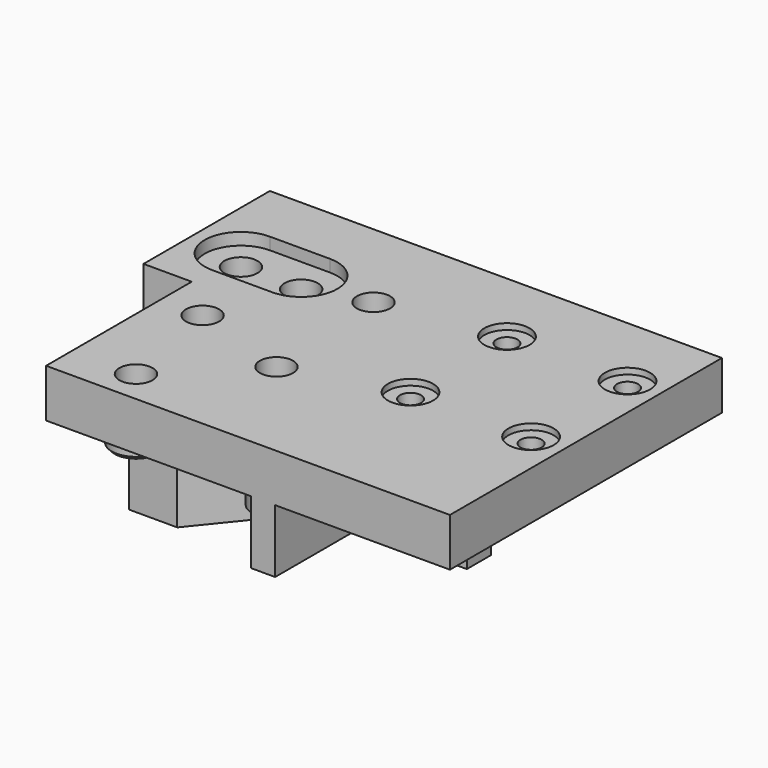
from build123d import *

# Parameters (mm, degrees)
SKETCH_R             = 1.75
SKETCH_R_2           = 2.75
PAD_DEPTH            = 8
PAD001_DEPTH         = 20
SKETCH004_R          = 2.75
POCKET_DEPTH         = 23.001
SKETCH005_R          = 2.75
POCKET001_DEPTH      = 20.001
POCKET001_DEPTH_BACK = 8.001
SKETCH008_R          = 4
SKETCH008_R_2        = 2.75
PAD005_DEPTH         = 2
SKETCH009_R          = 3.5
SKETCH009_R_2        = 2.75
PAD006_DEPTH         = 0.55
SKETCH010_R          = 4
SKETCH010_R_2        = 2.75
PAD007_DEPTH         = 12.1
SKETCH011_R          = 3.5
SKETCH011_R_2        = 2.75
PAD008_DEPTH         = 0.55
POCKET004_DEPTH      = 2
SKETCH020_W          = 4
SKETCH020_H          = 10.5
PAD013_DEPTH         = 33.4
PAD013_DEPTH_BACK    = 23
SKETCH021_W          = 27
SKETCH021_H          = 5
PAD014_DEPTH         = 3
SKETCH029_R          = 3.75
POCKET007_DEPTH      = 1


with BuildPart() as part:
    # Sketch → Pad (new body)
    with BuildSketch(Plane.XY):
        Polygon((0, 23), (-73, 23), (-73, -3.2), (-65, -3.2), (-65, -33.4), (0, -33.4), (2, -33.4), (2, 23), align=None)
        with Locations((-23.5, 10.3)):
            Circle(SKETCH_R, mode=Mode.SUBTRACT)
        with Locations((-3.5, 10.3)):
            Circle(SKETCH_R, mode=Mode.SUBTRACT)
        with Locations((-23.5, -9.7)):
            Circle(SKETCH_R, mode=Mode.SUBTRACT)
        with Locations((-3.5, -9.7)):
            Circle(SKETCH_R, mode=Mode.SUBTRACT)
        with Locations((-55, 7)):
            Circle(SKETCH_R_2, mode=Mode.SUBTRACT)
        with Locations((-41.5, -15)):
            Circle(SKETCH_R_2, mode=Mode.SUBTRACT)
        with Locations((-54.45, -27.95)):
            Circle(SKETCH_R_2, mode=Mode.SUBTRACT)
        with Locations((-65, 7)):
            Circle(SKETCH_R_2, mode=Mode.SUBTRACT)
    extrude(amount=PAD_DEPTH)

    # Sketch001 → Pad001 (join)
    with BuildSketch(Plane(origin=(0, 0, 0), x_dir=(1, 0, 0), z_dir=(0, 0, -1))):
        Polygon((-73, -23), (-39.5, -23), (-39.5, 3.2), (-46.5, 3.2), (-57, 16.2), (-65, 16.2), (-65, 3.2), (-47.5, 3.2), (-47.5, -17), (-73, -17), align=None)
    extrude(amount=PAD001_DEPTH)

    # Sketch004 → Pocket (cut, through all)
    with BuildSketch(Plane(origin=(0, 0, 0), x_dir=(-1, 0, 0), z_dir=(0, 1, 0))):
        with Locations((55, -10)):
            Circle(SKETCH004_R)
        with Locations((65, -10)):
            Circle(SKETCH004_R)
    extrude(amount=POCKET_DEPTH, mode=Mode.SUBTRACT)

    # Sketch005 → Pocket001 (cut, two sides)
    with BuildSketch(Plane.XY) as pocket001_sk:
        with Locations((-58, -9.7)):
            Circle(SKETCH005_R)
        with Locations((-43, 7)):
            Circle(SKETCH005_R)
    extrude(amount=-POCKET001_DEPTH, mode=Mode.SUBTRACT)
    extrude(pocket001_sk.sketch, amount=POCKET001_DEPTH_BACK, mode=Mode.SUBTRACT)

    # Sketch008 → Pad005 (join)
    with BuildSketch(Plane.XY):
        with Locations((-54.45, -27.95)):
            Circle(SKETCH008_R)
        with Locations((-54.45, -27.95)):
            Circle(SKETCH008_R_2, mode=Mode.SUBTRACT)
    extrude(amount=-PAD005_DEPTH)

    # Sketch009 (on Face30 of Pad005) → Pad006 (join)
    with BuildSketch(Plane(origin=(0, 0, -2), x_dir=(1, 0, 0), z_dir=(0, 0, -1))):
        with Locations((-54.45, 27.95)):
            Circle(SKETCH009_R)
        with Locations((-54.45, 27.95)):
            Circle(SKETCH009_R_2, mode=Mode.SUBTRACT)
    extrude(amount=PAD006_DEPTH)

    # Sketch010 → Pad007 (join)
    with BuildSketch(Plane.XY):
        with Locations((-41.5, -15)):
            Circle(SKETCH010_R)
        with Locations((-41.5, -15)):
            Circle(SKETCH010_R_2, mode=Mode.SUBTRACT)
    extrude(amount=-PAD007_DEPTH)

    # Sketch011 (on Face33 of Pad007) → Pad008 (join)
    with BuildSketch(Plane(origin=(0, 0, -12.1), x_dir=(1, 0, 0), z_dir=(0, 0, -1))):
        with Locations((-41.5, 15)):
            Circle(SKETCH011_R)
        with Locations((-41.5, 15)):
            Circle(SKETCH011_R_2, mode=Mode.SUBTRACT)
    extrude(amount=PAD008_DEPTH)

    # Sketch017 (on DatumPlane) → Pocket004 (cut)
    with BuildSketch(Plane.XY.offset(8)):
        with BuildLine():
            ThreePointArc((-65, 13), (-71, 7), (-65, 1))
            Line((-65, 1), (-55, 1))
            ThreePointArc((-55, 1), (-49, 7), (-55, 13))
            Line((-55, 13), (-65, 13))
        make_face()
    extrude(amount=-POCKET004_DEPTH, mode=Mode.SUBTRACT)

    # Sketch020 → Pad013 (join, two sides)
    with BuildSketch(Plane.XZ) as pad013_sk:
        with Locations((-29, -5.25)):
            Rectangle(SKETCH020_W, SKETCH020_H)
    extrude(amount=PAD013_DEPTH)
    extrude(pad013_sk.sketch, amount=-PAD013_DEPTH_BACK)

    # Sketch021 → Pad014 (join)
    with BuildSketch(Plane(origin=(0, 0, 0), x_dir=(-1, 0, 0), z_dir=(0, 0, -1))):
        with Locations((13.5, -24.9)):
            Rectangle(SKETCH021_W, SKETCH021_H)
    extrude(amount=PAD014_DEPTH)

    # Sketch029 (on DatumPlane) → Pocket007 (cut)
    with BuildSketch(Plane.XY.offset(8)):
        with Locations((-23.5, 10.3)):
            Circle(SKETCH029_R)
        with Locations((-3.5, 10.3)):
            Circle(SKETCH029_R)
        with Locations((-23.5, -9.7)):
            Circle(SKETCH029_R)
        with Locations((-3.5, -9.7)):
            Circle(SKETCH029_R)
    extrude(amount=-POCKET007_DEPTH, mode=Mode.SUBTRACT)


solid = part.part
